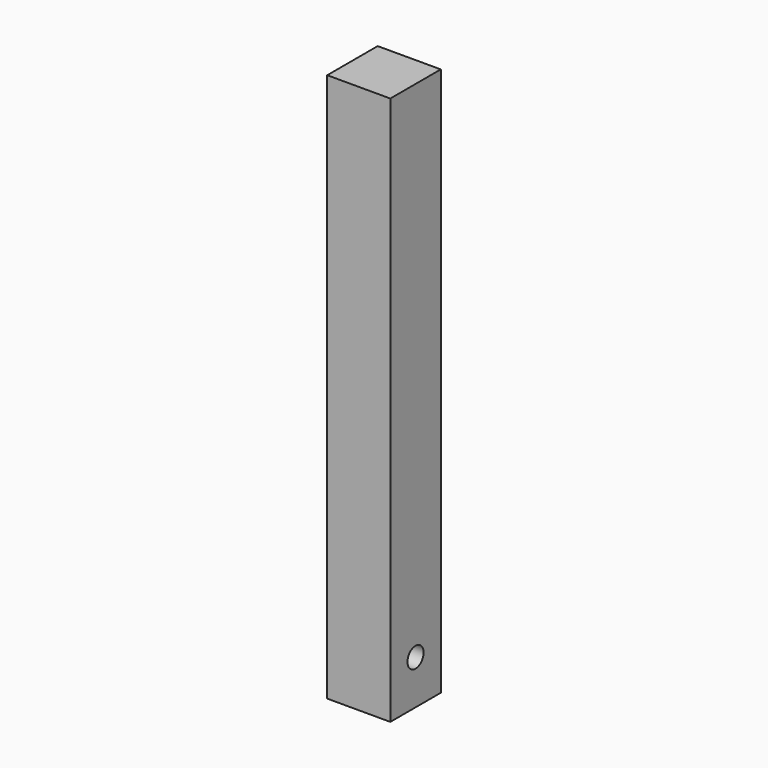
from build123d import *

# Parameters (mm, degrees)
F0_W     = 25
F0_H     = 217.5
F1_DEPTH = 25
F2_R     = 4
F3_DEPTH = 25


with BuildPart() as f1:
    # F0 (on Front) → F1 (new body)
    with BuildSketch(Plane.XZ):
        Rectangle(F0_W, F0_H)
    extrude(amount=F1_DEPTH)

    # F2 (on face) → F3 (cut)
    with BuildSketch(Plane.YZ.offset(12.5)):
        with Locations((-12.5, -91.25)):
            Circle(F2_R)
    extrude(amount=-F3_DEPTH, mode=Mode.SUBTRACT)


solid = f1.part
